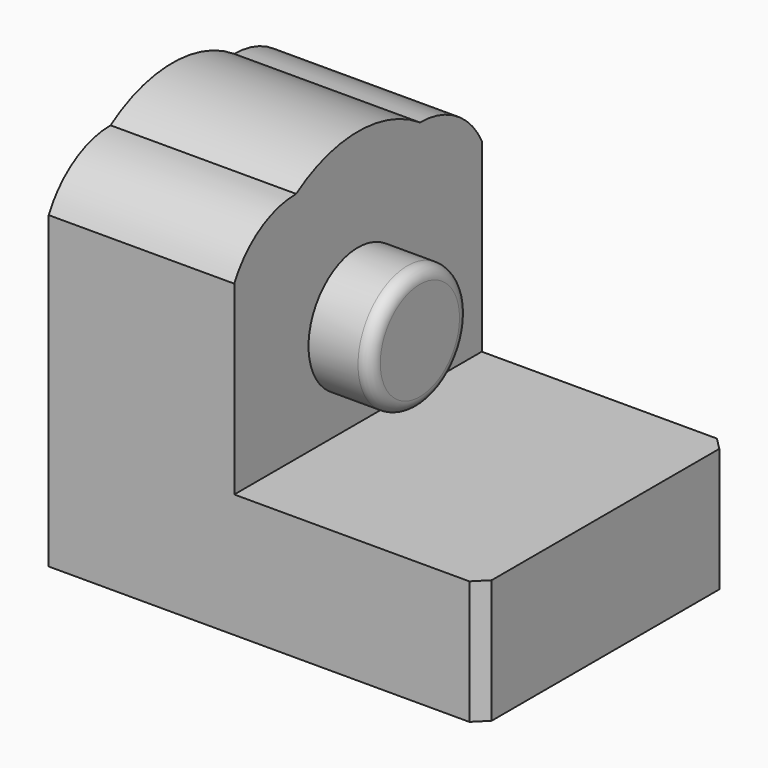
from build123d import *

# Parameters (mm, degrees)
F0_W     = 76.2
F0_H     = 76.2
F1_DEPTH = 127
F2_SIZE  = 5.08
F3_R     = 25.4
F4_DEPTH = 25.4
F5_R     = 5.08
F6_DEPTH = 76.2


with BuildPart() as f1:
    # F0 (on Front) → F1 (new body)
    with BuildSketch(Plane.XZ):
        Polygon((12.112662, -9.798872), (-64.087338, -9.798872), (-64.087338, -60.598872), (113.712662, -60.598872), (113.712662, -9.798872), align=None)
        with Locations((-25.987338, 28.301128)):
            Rectangle(F0_W, F0_H)
    extrude(amount=F1_DEPTH)

    # F2
    f2_edges = [f1.edges().sort_by_distance(p)[0] for p in [
        (113.712662, -127, -35.198872),
        (113.712662, 0, -35.198872),
    ]]
    chamfer(f2_edges, length=F2_SIZE)

    # F3 (on face) → F4 (join)
    with BuildSketch(Plane.YZ.offset(12.112662)):
        with Locations((-63.5, 28.301128)):
            Circle(F3_R)
    extrude(amount=F4_DEPTH)

    # F5
    f5_edges = [f1.edges().sort_by_distance(p)[0] for p in [
        (37.512662, -88.9, 28.301128),
    ]]
    fillet(f5_edges, radius=F5_R)

    # F3 (on face) → F6 (join)
    with BuildSketch(Plane.YZ.offset(12.112662)):
        with BuildLine():
            ThreePointArc((-31.75, 85.947037), (-50.392056, 80.668836), (-63.5, 66.401128))
            Line((-63.5, 66.401128), (0, 66.401128))
            ThreePointArc((0, 66.401128), (-13.107944, 80.668836), (-31.75, 85.947037))
        make_face()
        with BuildLine():
            ThreePointArc((-95.25, 85.947037), (-76.607944, 80.668836), (-63.5, 66.401128))
            ThreePointArc((-63.5, 66.401128), (-50.392056, 80.668836), (-31.75, 85.947037))
            ThreePointArc((-31.75, 85.947037), (-63.5, 95.609763), (-95.25, 85.947037))
        make_face()
        with BuildLine():
            Line((-127, 66.401128), (-63.5, 66.401128))
            ThreePointArc((-63.5, 66.401128), (-76.607944, 80.668836), (-95.25, 85.947037))
            ThreePointArc((-95.25, 85.947037), (-113.892056, 80.668836), (-127, 66.401128))
        make_face()
    extrude(amount=-F6_DEPTH)


solid = f1.part
